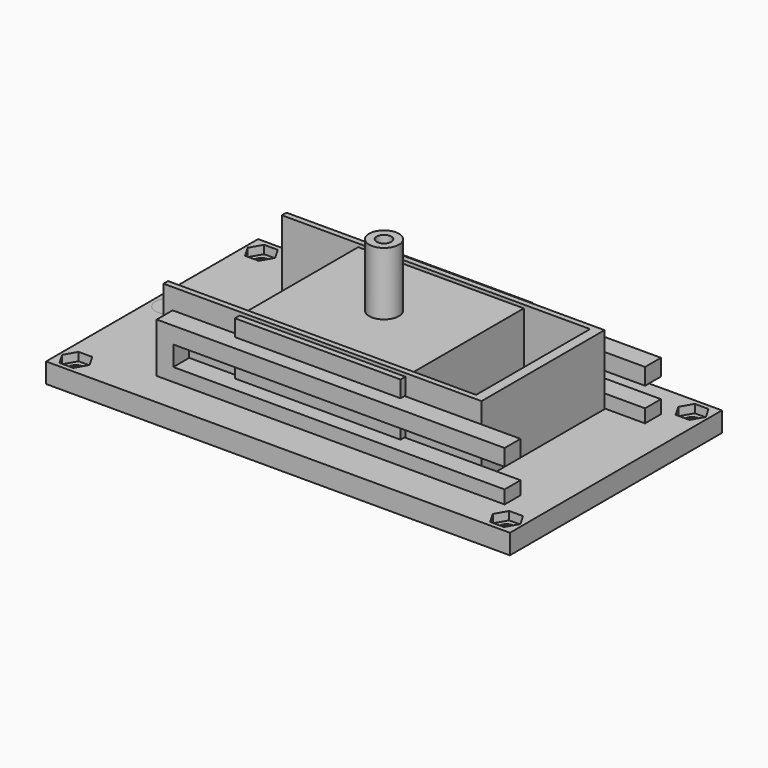
from build123d import *

# Parameters (mm, degrees)
SKETCH_W        = 140
SKETCH_H        = 80
SKETCH_R        = 2.2
SKETCH_R_2      = 1.75
PAD_DEPTH       = 6
POCKET_DEPTH    = 2.5
POCKET001_DEPTH = 3.2
SKETCH003_W     = 140
SKETCH003_H     = 80
SKETCH003_R     = 2.2
SKETCH003_R_2   = 1.6
SKETCH003_W_2   = 10
SKETCH003_H_2   = 37
PAD001_DEPTH    = 6
POCKET002_DEPTH = 3.2
POCKET003_DEPTH = 2.5
SKETCH009_W     = 105
SKETCH009_H     = 6
PAD003_DEPTH    = 15
SKETCH010_W     = 100
SKETCH010_H     = 6
POCKET006_DEPTH = 16.501
SKETCH011_W     = 100
SKETCH011_H     = 6
POCKET007_DEPTH = 16.501
SKETCH006_W     = 140
SKETCH006_H     = 80
SKETCH006_R     = 2.2
SKETCH006_W_2   = 10
SKETCH006_H_2   = 37
PAD002_DEPTH    = 6
POCKET004_DEPTH = 2.5
POCKET005_DEPTH = 3.2
SKETCH012_W     = 96
SKETCH012_H     = 46.4
PAD004_DEPTH    = 3.5
PAD005_DEPTH    = 27
SKETCH013_W     = 90
SKETCH013_H     = 43
POCKET008_DEPTH = 24
SKETCH014_W     = 43
SKETCH014_H     = 24
POCKET009_DEPTH = 6
SKETCH015_W     = 94
SKETCH015_H     = 5.6
PAD006_DEPTH    = 5
SKETCH016_W     = 140
SKETCH016_H     = 80
SKETCH016_R     = 2.2
SKETCH016_R_2   = 4
PAD007_DEPTH    = 6
SKETCH017_W     = 50
SKETCH017_H     = 50
PAD008_DEPTH    = 20
POCKET010_DEPTH = 3.2
POCKET011_DEPTH = 2.5
SKETCH020_R     = 4.5
SKETCH020_R_2   = 2.2
PAD009_DEPTH    = 45


with BuildPart() as wheels:
    # Sketch → Pad (new body)
    with BuildSketch(Plane.XY):
        Rectangle(SKETCH_W, SKETCH_H)
        with Locations((-65, 35)):
            Circle(SKETCH_R, mode=Mode.SUBTRACT)
        with Locations((-65, -35)):
            Circle(SKETCH_R, mode=Mode.SUBTRACT)
        with Locations((65, 35)):
            Circle(SKETCH_R, mode=Mode.SUBTRACT)
        with Locations((65, -35)):
            Circle(SKETCH_R, mode=Mode.SUBTRACT)
        with Locations((-65, 9)):
            Circle(SKETCH_R_2, mode=Mode.SUBTRACT)
        with Locations((-65, -9)):
            Circle(SKETCH_R_2, mode=Mode.SUBTRACT)
        with Locations((65, -9)):
            Circle(SKETCH_R_2, mode=Mode.SUBTRACT)
        with Locations((65, 9)):
            Circle(SKETCH_R_2, mode=Mode.SUBTRACT)
    extrude(amount=PAD_DEPTH)

    # Sketch001 (on Face14 of Pad) → Pocket (cut)
    with BuildSketch(Plane.XY.offset(6)):
        Polygon((-62.925, 31.405995), (-60.85, 35), (-62.925, 38.594005), (-67.075, 38.594005), (-69.15, 35), (-67.075, 31.405995), align=None)
        Polygon((-60.85, -35), (-62.925, -31.405995), (-67.075, -31.405995), (-69.15, -35), (-67.075, -38.594005), (-62.925, -38.594005), align=None)
        Polygon((67.075, -38.594005), (69.15, -35), (67.075, -31.405995), (62.925, -31.405995), (60.85, -35), (62.925, -38.594005), align=None)
        Polygon((67.396004, 30.85), (69.792007, 35), (67.396004, 39.15), (62.603996, 39.15), (60.207993, 35), (62.603996, 30.85), align=None)
    extrude(amount=-POCKET_DEPTH, mode=Mode.SUBTRACT)

    # Sketch002 (on Face4 of Pocket) → Pocket001 (cut)
    with BuildSketch(Plane(origin=(0, 0, 0), x_dir=(1, 0, 0), z_dir=(0, 0, -1))):
        Polygon((-62.925, 31.405995), (-60.85, 35), (-62.925, 38.594005), (-67.075, 38.594005), (-69.15, 35), (-67.075, 31.405995), align=None)
        Polygon((-60.85, -35), (-62.925, -31.405995), (-67.075, -31.405995), (-69.15, -35), (-67.075, -38.594005), (-62.925, -38.594005), align=None)
        Polygon((67.075, -38.594005), (69.15, -35), (67.075, -31.405995), (62.925, -31.405995), (60.85, -35), (62.925, -38.594005), align=None)
        Polygon((67.075, 31.405995), (69.15, 35), (67.075, 38.594005), (62.925, 38.594005), (60.85, 35), (62.925, 31.405995), align=None)
    extrude(amount=-POCKET001_DEPTH, mode=Mode.SUBTRACT)


with BuildPart() as battery_plat:
    # Sketch003 → Pad001 (new body)
    with BuildSketch(Plane.XY):
        Rectangle(SKETCH003_W, SKETCH003_H)
        with Locations((-65, 35)):
            Circle(SKETCH003_R, mode=Mode.SUBTRACT)
        with Locations((-65, -35)):
            Circle(SKETCH003_R, mode=Mode.SUBTRACT)
        with Locations((65, -35)):
            Circle(SKETCH003_R, mode=Mode.SUBTRACT)
        with Locations((65, 35)):
            Circle(SKETCH003_R, mode=Mode.SUBTRACT)
        with Locations((-18.5, 18.5)):
            Circle(SKETCH003_R_2, mode=Mode.SUBTRACT)
        with Locations((-18.5, -18.5)):
            Circle(SKETCH003_R_2, mode=Mode.SUBTRACT)
        with Locations((18.5, -18.5)):
            Circle(SKETCH003_R_2, mode=Mode.SUBTRACT)
        with Locations((18.5, 18.5)):
            Circle(SKETCH003_R_2, mode=Mode.SUBTRACT)
        with Locations((-55, 0)):
            Rectangle(SKETCH003_W_2, SKETCH003_H_2, mode=Mode.SUBTRACT)
    extrude(amount=PAD001_DEPTH)

    # Sketch004 (on Face17 of Pad001) → Pocket002 (cut)
    with BuildSketch(Plane(origin=(0, 0, 0), x_dir=(1, 0, 0), z_dir=(0, 0, -1))):
        Polygon((-62.925, 31.405995), (-60.85, 35), (-62.925, 38.594005), (-67.075, 38.594005), (-69.15, 35), (-67.075, 31.405995), align=None)
        Polygon((-60.85, -35), (-62.925, -31.405995), (-67.075, -31.405995), (-69.15, -35), (-67.075, -38.594005), (-62.925, -38.594005), align=None)
        Polygon((62.925, -38.594005), (67.075, -38.594005), (69.15, -35), (67.075, -31.405995), (62.925, -31.405995), (60.85, -35), align=None)
        Polygon((62.925, 31.405995), (67.075, 31.405995), (69.15, 35), (67.075, 38.594005), (62.925, 38.594005), (60.85, 35), align=None)
    extrude(amount=-POCKET002_DEPTH, mode=Mode.SUBTRACT)

    # Sketch005 (on Face5 of Pocket002) → Pocket003 (cut)
    with BuildSketch(Plane.XY.offset(6)):
        Polygon((-62.925, 31.405995), (-60.85, 35), (-62.925, 38.594005), (-67.075, 38.594005), (-69.15, 35), (-67.075, 31.405995), align=None)
        Polygon((-60.85, -35), (-62.925, -31.405995), (-67.075, -31.405995), (-69.15, -35), (-67.075, -38.594005), (-62.925, -38.594005), align=None)
        Polygon((62.925, -38.594005), (67.075, -38.594005), (69.15, -35), (67.075, -31.405995), (62.925, -31.405995), (60.85, -35), align=None)
        Polygon((62.925, 31.405995), (67.075, 31.405995), (69.15, 35), (67.075, 38.594005), (62.925, 38.594005), (60.85, 35), align=None)
    extrude(amount=-POCKET003_DEPTH, mode=Mode.SUBTRACT)

    # Sketch009 (on Face5 of Pocket003) → Pad003 (join)
    with BuildSketch(Plane.XY.offset(6)):
        with Locations((7.5, 26.5)):
            Rectangle(SKETCH009_W, SKETCH009_H)
        with Locations((7.5, -26.5)):
            Rectangle(SKETCH009_W, SKETCH009_H)
    extrude(amount=PAD003_DEPTH)

    # Sketch010 (on Face62 of Pad003) → Pocket006 (cut, through all)
    with BuildSketch(Plane.XZ.offset(-23.5)):
        with Locations((10, 13)):
            Rectangle(SKETCH010_W, SKETCH010_H)
    extrude(amount=-POCKET006_DEPTH, mode=Mode.SUBTRACT)

    # Sketch011 (on Face48 of Pocket006) → Pocket007 (cut, through all)
    with BuildSketch(Plane(origin=(0, -23.5, 0), x_dir=(-1, 0, 0), z_dir=(0, 1, 0))):
        with Locations((-10, 13)):
            Rectangle(SKETCH011_W, SKETCH011_H)
    extrude(amount=-POCKET007_DEPTH, mode=Mode.SUBTRACT)


with BuildPart() as brain:
    # Sketch006 → Pad002 (new body)
    with BuildSketch(Plane.XY):
        Rectangle(SKETCH006_W, SKETCH006_H)
        with Locations((-65, 35)):
            Circle(SKETCH006_R, mode=Mode.SUBTRACT)
        with Locations((-65, -35)):
            Circle(SKETCH006_R, mode=Mode.SUBTRACT)
        with Locations((65, -35)):
            Circle(SKETCH006_R, mode=Mode.SUBTRACT)
        with Locations((65, 35)):
            Circle(SKETCH006_R, mode=Mode.SUBTRACT)
        with Locations((-55, 0)):
            Rectangle(SKETCH006_W_2, SKETCH006_H_2, mode=Mode.SUBTRACT)
    extrude(amount=PAD002_DEPTH)

    # Sketch007 (on Face14 of Pad002) → Pocket004 (cut)
    with BuildSketch(Plane.XY.offset(6)):
        Polygon((-62.925, 31.405995), (-60.85, 35), (-62.925, 38.594005), (-67.075, 38.594005), (-69.15, 35), (-67.075, 31.405995), align=None)
        Polygon((-62.925, -38.594005), (-60.85, -35), (-62.925, -31.405995), (-67.075, -31.405995), (-69.15, -35), (-67.075, -38.594005), align=None)
        Polygon((67.075, -38.594005), (69.15, -35), (67.075, -31.405995), (62.925, -31.405995), (60.85, -35), (62.925, -38.594005), align=None)
        Polygon((67.075, 31.405995), (69.15, 35), (67.075, 38.594005), (62.925, 38.594005), (60.85, 35), (62.925, 31.405995), align=None)
    extrude(amount=-POCKET004_DEPTH, mode=Mode.SUBTRACT)

    # Sketch008 (on Face4 of Pocket004) → Pocket005 (cut)
    with BuildSketch(Plane(origin=(0, 0, 0), x_dir=(1, 0, 0), z_dir=(0, 0, -1))):
        Polygon((-62.925, 31.405995), (-60.85, 35), (-62.925, 38.594005), (-67.075, 38.594005), (-69.15, 35), (-67.075, 31.405995), align=None)
        Polygon((-60.85, -35), (-62.925, -31.405995), (-67.075, -31.405995), (-69.15, -35), (-67.075, -38.594005), (-62.925, -38.594005), align=None)
        Polygon((62.925, -38.594005), (67.075, -38.594005), (69.15, -35), (67.075, -31.405995), (62.925, -31.405995), (60.85, -35), align=None)
        Polygon((62.925, 31.405995), (67.075, 31.405995), (69.15, 35), (67.075, 38.594005), (62.925, 38.594005), (60.85, 35), align=None)
    extrude(amount=-POCKET005_DEPTH, mode=Mode.SUBTRACT)


with BuildPart() as battery_hold:
    # Sketch012 → Pad004 (new body)
    with BuildSketch(Plane.XY):
        Rectangle(SKETCH012_W, SKETCH012_H)
    extrude(amount=PAD004_DEPTH)

    # Sketch012 → Pad005 (join)
    with BuildSketch(Plane.XY):
        Rectangle(SKETCH012_W, SKETCH012_H)
    extrude(amount=PAD005_DEPTH)

    # Sketch013 (on Face3 of Pad005) → Pocket008 (cut)
    with BuildSketch(Plane.XY.offset(27)):
        Rectangle(SKETCH013_W, SKETCH013_H)
    extrude(amount=-POCKET008_DEPTH, mode=Mode.SUBTRACT)

    # Sketch014 (on Face2 of Pocket008) → Pocket009 (cut)
    with BuildSketch(Plane(origin=(-48, 0, 0), x_dir=(0, -1, 0), z_dir=(-1, 0, 0))):
        with Locations((0, 15)):
            Rectangle(SKETCH014_W, SKETCH014_H)
    extrude(amount=-POCKET009_DEPTH, mode=Mode.SUBTRACT)

    # Sketch015 (on Face1 of Pocket009) → Pad006 (join)
    with BuildSketch(Plane(origin=(0, 0, 0), x_dir=(1, 0, 0), z_dir=(0, 0, -1))):
        with Locations((0, 26)):
            Rectangle(SKETCH015_W, SKETCH015_H)
        with Locations((0, -26)):
            Rectangle(SKETCH015_W, SKETCH015_H)
    extrude(amount=-PAD006_DEPTH)


with BuildPart() as head:
    # Sketch016 → Pad007 (new body)
    with BuildSketch(Plane.XY):
        Rectangle(SKETCH016_W, SKETCH016_H)
        with Locations((-65, 35)):
            Circle(SKETCH016_R, mode=Mode.SUBTRACT)
        with Locations((-65, -35)):
            Circle(SKETCH016_R, mode=Mode.SUBTRACT)
        with Locations((65, -35)):
            Circle(SKETCH016_R, mode=Mode.SUBTRACT)
        with Locations((65, 35)):
            Circle(SKETCH016_R, mode=Mode.SUBTRACT)
        with Locations((-65, 0)):
            Circle(SKETCH016_R_2, mode=Mode.SUBTRACT)
    extrude(amount=PAD007_DEPTH)

    # Sketch017 (on Face11 of Pad007) → Pad008 (join)
    with BuildSketch(Plane.XY.offset(6)):
        Rectangle(SKETCH017_W, SKETCH017_H)
    extrude(amount=PAD008_DEPTH)

    # Sketch018 (on Face4 of Pad008) → Pocket010 (cut)
    with BuildSketch(Plane(origin=(0, 0, 0), x_dir=(1, 0, 0), z_dir=(0, 0, -1))):
        Polygon((-62.925, 31.405995), (-60.85, 35), (-62.925, 38.594005), (-67.075, 38.594005), (-69.15, 35), (-67.075, 31.405995), align=None)
        Polygon((-60.85, -35), (-62.925, -31.405995), (-67.075, -31.405995), (-69.15, -35), (-67.075, -38.594005), (-62.925, -38.594005), align=None)
        Polygon((67.075, -38.594005), (69.15, -35), (67.075, -31.405995), (62.925, -31.405995), (60.85, -35), (62.925, -38.594005), align=None)
        Polygon((67.075, 31.405995), (69.15, 35), (67.075, 38.594005), (62.925, 38.594005), (60.85, 35), (62.925, 31.405995), align=None)
    extrude(amount=-POCKET010_DEPTH, mode=Mode.SUBTRACT)

    # Sketch019 (on Face5 of Pocket010) → Pocket011 (cut)
    with BuildSketch(Plane.XY.offset(6)):
        Polygon((-62.925, 31.405995), (-60.85, 35), (-62.925, 38.594005), (-67.075, 38.594005), (-69.15, 35), (-67.075, 31.405995), align=None)
        Polygon((-60.85, -35), (-62.925, -31.405995), (-67.075, -31.405995), (-69.15, -35), (-67.075, -38.594005), (-62.925, -38.594005), align=None)
        Polygon((67.075, -38.594005), (69.15, -35), (67.075, -31.405995), (62.925, -31.405995), (60.85, -35), (62.925, -38.594005), align=None)
        Polygon((67.075, 31.405995), (69.15, 35), (67.075, 38.594005), (62.925, 38.594005), (60.85, 35), (62.925, 31.405995), align=None)
    extrude(amount=-POCKET011_DEPTH, mode=Mode.SUBTRACT)


with BuildPart() as body005:
    # Sketch020 → Pad009 (new body)
    with BuildSketch(Plane.XY):
        Circle(SKETCH020_R)
        Circle(SKETCH020_R_2, mode=Mode.SUBTRACT)
    extrude(amount=PAD009_DEPTH)


solid = Compound([wheels.part, battery_plat.part, brain.part, battery_hold.part, head.part, body005.part])
